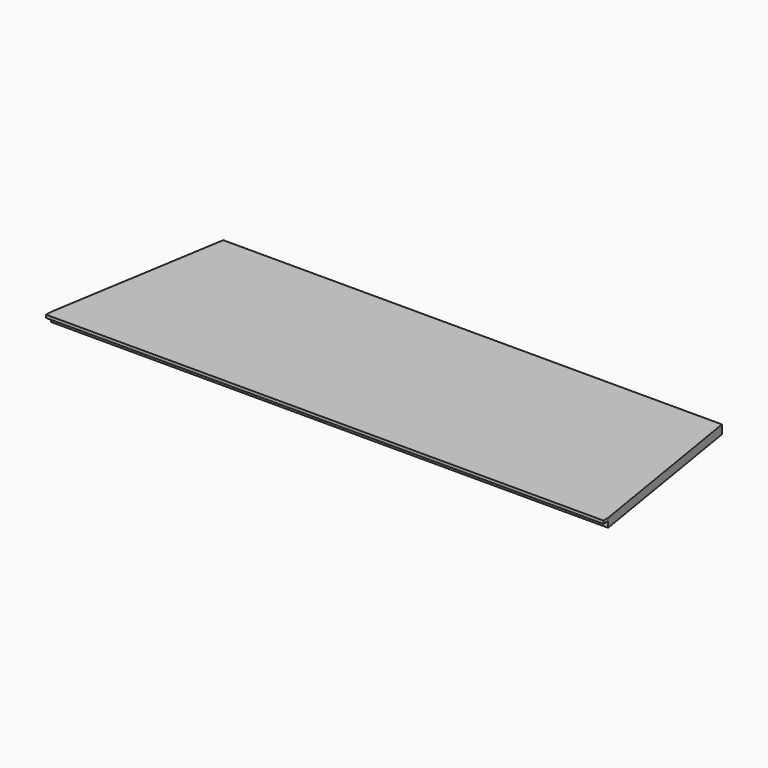
from build123d import *

# Parameters (mm, degrees)
EXTRUDE001_DEPTH = 1
EXTRUDE_DEPTH    = 2
BOX_W            = 190
BOX_H            = 2
BOX_DEPTH        = 1


with BuildPart() as extrude001:
    # Sketch001 → Extrude001 (new body)
    with BuildSketch(Plane.XY):
        Polygon((-95, 0), (95, 0), (85, 61), (-85, 61), align=None)
    extrude(amount=EXTRUDE001_DEPTH)


with BuildPart() as extrude001_1:
    # Extrude001 placement: moved
    add(extrude001.part.moved(Location((0, 0, 2))))


with BuildPart() as extrude_body:
    # Sketch → Extrude (new body)
    with BuildSketch(Plane.XY):
        Polygon((-95, 0), (95, 0), (85, 61), (-85, 61), align=None)
    extrude(amount=EXTRUDE_DEPTH)


with BuildPart() as fusion:
    # Box → Box (new body)
    with BuildSketch(Plane(origin=(-95, -2, 2), x_dir=(1, 0, 0), z_dir=(0, 0, 1))):
        with Locations((95, 1)):
            Rectangle(BOX_W, BOX_H)
    extrude(amount=BOX_DEPTH)

    # Fusion: union Extrude001, Extrude body
    add(extrude001_1.part)
    add(extrude_body.part)


solid = fusion.part
